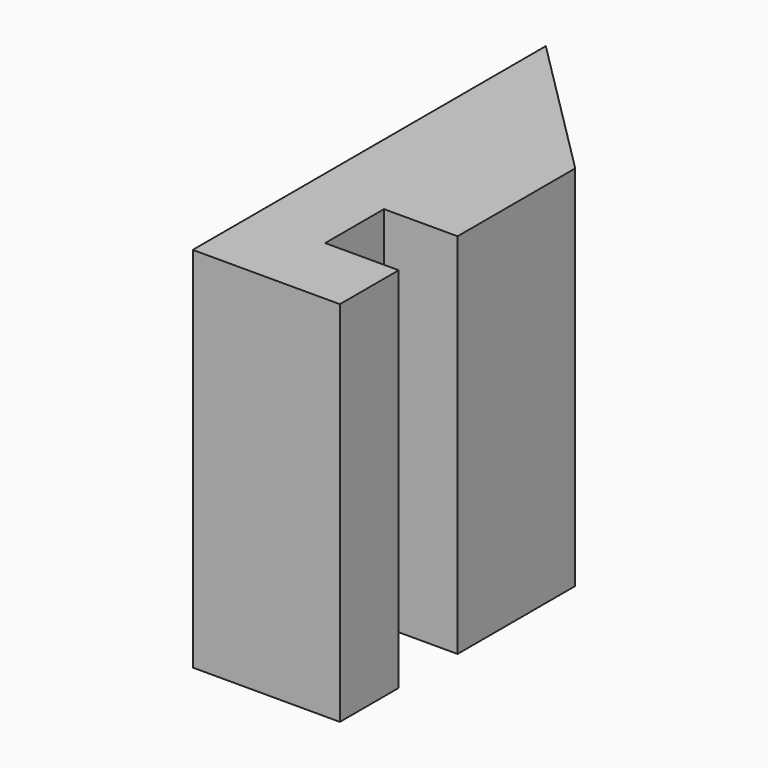
from build123d import *


with BuildPart() as f2:
    # F2: sweep along a path in F1
    with BuildLine(Plane.YZ) as f2_path:
        Line((0, 0), (0, 127))
    # F0 (on Top) → F2 (sweep)
    with BuildSketch(Plane.XY):
        Polygon((0, 152.4), (0, 0), (50.8, 0), (50.8, 25.4), (25.4, 25.4), (25.4, 50.8), (50.8, 50.8), (50.8, 101.6), align=None)
    sweep(path=f2_path.line)


solid = f2.part
